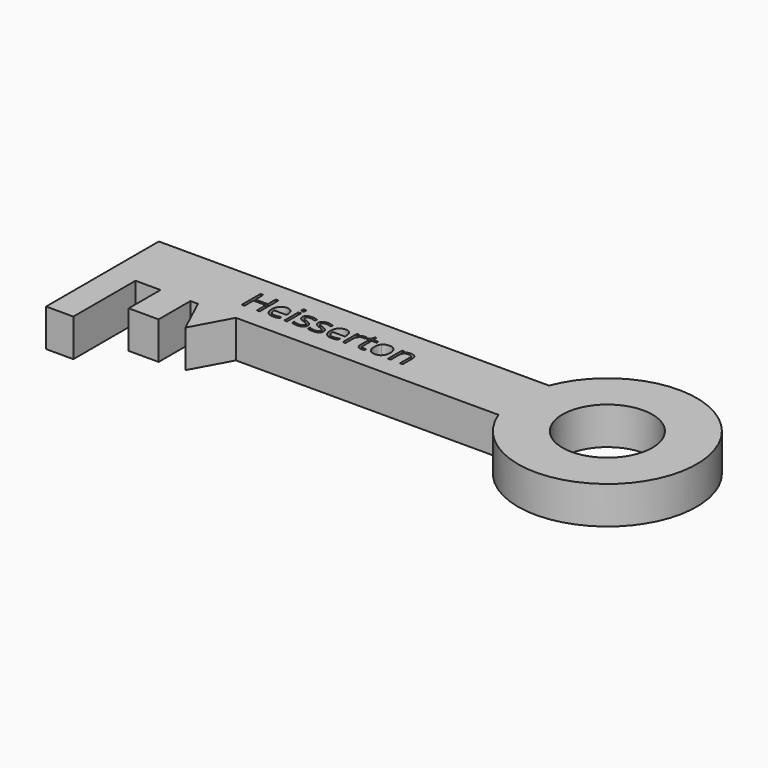
from build123d import *

# Parameters (mm, degrees)
F0_W     = 1.0724383422
F0_H     = 7.0772665165
F0_R     = 17.9847196989
F0_W_2   = 10.9090874883
F0_H_2   = 31.0606070869
F0_W_3   = 11.9697039824
F0_H_3   = 15.8926171895
F1_DEPTH = 15


with BuildPart() as f1:
    # F0 (on Top) → F1 (new body)
    with BuildSketch(Plane.XY):
        with BuildLine():
            Line((47.8787895892, 25.3030316714), (-108.1818212606, 25.3030316714))
            Line((-108.1818212606, 25.3030316714), (-108.1818212606, 0))
            Line((-108.1818212606, 0), (-97.2727337723, 0))
            Line((-97.2727337723, 0), (-87.2727337723, 0))
            Line((-87.2727337723, 0), (-75.3030297899, 0))
            Line((-75.3030297899, 0), (-72.2727318909, 0))
            Line((-72.2727318909, 0), (-57.1212122923, 0))
            Line((-57.1212122923, 0), (47.8787895892, 0))
            ThreePointArc((47.8787895892, 0), (117.1019664463, 12.6515158357), (47.8787895892, 25.3030316714))
        make_face()
        Polygon((-54.0404227057, 17.4914183584), (-54.0404227057, 8.0502415076), (-55.1376573102, 8.0502415076), (-55.1376573102, 12.4929051603), (-60.111374246, 12.4929051603), (-60.111374246, 8.0502415076), (-61.2086088505, 8.0502415076), (-61.2086088505, 17.4914183584), (-60.111374246, 17.4914183584), (-60.111374246, 13.4744238743), (-55.1376573102, 13.4744238743), (-55.1376573102, 17.4914183584), align=None, mode=Mode.SUBTRACT)
        with BuildLine():
            add(Edge.make_bspline(
                [(-47.3991571337, 8.0275116005), (-47.9054141546, 7.9200611308), (-48.6224394046, 7.9200611308)],
                knots=[0, 0, 0, 1, 1, 1], degree=2))
            add(Edge.make_bspline(
                [(-48.6224394046, 7.9200611308), (-50.1908029918, 7.9200611308), (-51.0989660966, 8.8767835825)],
                knots=[0, 0, 0, 1, 1, 1], degree=2))
            add(Edge.make_bspline(
                [(-51.0989660966, 8.8767835825), (-52.0071292014, 9.8335060342), (-52.0071292014, 11.529983643)],
                knots=[0, 0, 0, 1, 1, 1], degree=2))
            add(Edge.make_bspline(
                [(-52.0071292014, 11.529983643), (-52.0071292014, 13.2429920933), (-51.164056285, 14.2503402471)],
                knots=[0, 0, 0, 1, 1, 1], degree=2))
            add(Edge.make_bspline(
                [(-51.164056285, 14.2503402471), (-50.3209833686, 15.2576884009), (-48.8993309997, 15.2576884009)],
                knots=[0, 0, 0, 1, 1, 1], degree=2))
            add(Edge.make_bspline(
                [(-48.8993309997, 15.2576884009), (-47.5706646143, 15.2576884009), (-46.7957814191, 14.3825869791)],
                knots=[0, 0, 0, 1, 1, 1], degree=2))
            add(Edge.make_bspline(
                [(-46.7957814191, 14.3825869791), (-46.0208982238, 13.5074855573), (-46.0208982238, 12.0734350573)],
                knots=[0, 0, 0, 1, 1, 1], degree=2))
            Line((-46.0208982238, 12.0734350573), (-46.0208982238, 11.3956705558))
            Line((-46.0208982238, 11.3956705558), (-50.8954301107, 11.3956705558))
            add(Edge.make_bspline(
                [(-50.8954301107, 11.3956705558), (-50.8623684277, 10.1496583779), (-50.2651917785, 9.5039223819)],
                knots=[0, 0, 0, 1, 1, 1], degree=2))
            add(Edge.make_bspline(
                [(-50.2651917785, 9.5039223819), (-49.6680151294, 8.8581863858), (-48.5831786561, 8.8581863858)],
                knots=[0, 0, 0, 1, 1, 1], degree=2))
            add(Edge.make_bspline(
                [(-48.5831786561, 8.8581863858), (-47.4404842375, 8.8581863858), (-46.3246524363, 9.3355144341)],
                knots=[0, 0, 0, 1, 1, 1], degree=2))
            Line((-46.3246524363, 9.3355144341), (-46.3246524363, 8.3787919824))
            add(Edge.make_bspline(
                [(-46.3246524363, 8.3787919824), (-46.8929001129, 8.1349620703), (-47.3991571337, 8.0275116005)],
                knots=[0, 0, 0, 1, 1, 1], degree=2))
        make_face(mode=Mode.SUBTRACT)
        with Locations((-43.6559547119, 11.5888747658)):
            Rectangle(F0_W, F0_H, mode=Mode.SUBTRACT)
        with BuildLine():
            add(Edge.make_bspline(
                [(-36.7243662361, 11.1497742885), (-36.2821662261, 10.6848443714), (-36.2821662261, 9.9802172525)],
                knots=[0, 0, 0, 1, 1, 1], degree=2))
            add(Edge.make_bspline(
                [(-36.2821662261, 9.9802172525), (-36.2821662261, 8.992499473), (-37.0177886727, 8.4562803019)],
                knots=[0, 0, 0, 1, 1, 1], degree=2))
            add(Edge.make_bspline(
                [(-37.0177886727, 8.4562803019), (-37.7534111194, 7.9200611308), (-39.08414386, 7.9200611308)],
                knots=[0, 0, 0, 1, 1, 1], degree=2))
            add(Edge.make_bspline(
                [(-39.08414386, 7.9200611308), (-40.4913317426, 7.9200611308), (-41.278613069, 8.3663938512)],
                knots=[0, 0, 0, 1, 1, 1], degree=2))
            Line((-41.278613069, 8.3663938512), (-41.278613069, 9.3603106963))
            add(Edge.make_bspline(
                [(-41.278613069, 9.3603106963), (-40.7682233377, 9.1020162979), (-40.1844779973, 8.954271902)],
                knots=[0, 0, 0, 1, 1, 1], degree=2))
            add(Edge.make_bspline(
                [(-40.1844779973, 8.954271902), (-39.6007326569, 8.8065275061), (-39.0572812426, 8.8065275061)],
                knots=[0, 0, 0, 1, 1, 1], degree=2))
            add(Edge.make_bspline(
                [(-39.0572812426, 8.8065275061), (-38.2183410366, 8.8065275061), (-37.7668424281, 9.0741205029)],
                knots=[0, 0, 0, 1, 1, 1], degree=2))
            add(Edge.make_bspline(
                [(-37.7668424281, 9.0741205029), (-37.3153438197, 9.3417134997), (-37.3153438197, 9.8913639795)],
                knots=[0, 0, 0, 1, 1, 1], degree=2))
            add(Edge.make_bspline(
                [(-37.3153438197, 9.8913639795), (-37.3153438197, 10.3046350169), (-37.6728232671, 10.5980574535)],
                knots=[0, 0, 0, 1, 1, 1], degree=2))
            add(Edge.make_bspline(
                [(-37.6728232671, 10.5980574535), (-38.0303027145, 10.8914798901), (-39.0717457289, 11.2923527965)],
                knots=[0, 0, 0, 1, 1, 1], degree=2))
            add(Edge.make_bspline(
                [(-39.0717457289, 11.2923527965), (-40.0594635084, 11.6601640198), (-40.4758340787, 11.9349892597)],
                knots=[0, 0, 0, 1, 1, 1], degree=2))
            add(Edge.make_bspline(
                [(-40.4758340787, 11.9349892597), (-40.8922046489, 12.2098144996), (-41.0957406349, 12.5579953487)],
                knots=[0, 0, 0, 1, 1, 1], degree=2))
            add(Edge.make_bspline(
                [(-41.0957406349, 12.5579953487), (-41.2992766208, 12.9061761978), (-41.2992766208, 13.3897033116)],
                knots=[0, 0, 0, 1, 1, 1], degree=2))
            add(Edge.make_bspline(
                [(-41.2992766208, 13.3897033116), (-41.2992766208, 14.2555061351), (-40.594649502, 14.756597268)],
                knots=[0, 0, 0, 1, 1, 1], degree=2))
            add(Edge.make_bspline(
                [(-40.594649502, 14.756597268), (-39.8900223831, 15.2576884009), (-38.664673757, 15.2576884009)],
                knots=[0, 0, 0, 1, 1, 1], degree=2))
            add(Edge.make_bspline(
                [(-38.664673757, 15.2576884009), (-37.5219793384, 15.2576884009), (-36.4288774443, 14.7927584838)],
                knots=[0, 0, 0, 1, 1, 1], degree=2))
            Line((-36.4288774443, 14.7927584838), (-36.811153154, 13.9207565947))
            add(Edge.make_bspline(
                [(-36.811153154, 13.9207565947), (-37.8753260755, 14.3588238944), (-38.7411288989, 14.3588238944)],
                knots=[0, 0, 0, 1, 1, 1], degree=2))
            add(Edge.make_bspline(
                [(-38.7411288989, 14.3588238944), (-39.5036139631, 14.3588238944), (-39.8910555607, 14.1201598703)],
                knots=[0, 0, 0, 1, 1, 1], degree=2))
            add(Edge.make_bspline(
                [(-39.8910555607, 14.1201598703), (-40.2784971583, 13.8814958462), (-40.2784971583, 13.4620257431)],
                knots=[0, 0, 0, 1, 1, 1], degree=2))
            add(Edge.make_bspline(
                [(-40.2784971583, 13.4620257431), (-40.2784971583, 13.1768687273), (-40.1328191176, 12.9774654517)],
                knots=[0, 0, 0, 1, 1, 1], degree=2))
            add(Edge.make_bspline(
                [(-40.1328191176, 12.9774654517), (-39.9871410769, 12.7780621761), (-39.6647896677, 12.5972560973)],
                knots=[0, 0, 0, 1, 1, 1], degree=2))
            add(Edge.make_bspline(
                [(-39.6647896677, 12.5972560973), (-39.3424382584, 12.4164500184), (-38.4249765553, 12.0734350573)],
                knots=[0, 0, 0, 1, 1, 1], degree=2))
            add(Edge.make_bspline(
                [(-38.4249765553, 12.0734350573), (-37.1665662462, 11.6147042057), (-36.7243662361, 11.1497742885)],
                knots=[0, 0, 0, 1, 1, 1], degree=2))
        make_face(mode=Mode.SUBTRACT)
        with BuildLine():
            add(Edge.make_bspline(
                [(-30.4157838493, 11.1497742885), (-29.9735838392, 10.6848443714), (-29.9735838392, 9.9802172525)],
                knots=[0, 0, 0, 1, 1, 1], degree=2))
            add(Edge.make_bspline(
                [(-29.9735838392, 9.9802172525), (-29.9735838392, 8.992499473), (-30.7092062859, 8.4562803019)],
                knots=[0, 0, 0, 1, 1, 1], degree=2))
            add(Edge.make_bspline(
                [(-30.7092062859, 8.4562803019), (-31.4448287326, 7.9200611308), (-32.7755614732, 7.9200611308)],
                knots=[0, 0, 0, 1, 1, 1], degree=2))
            add(Edge.make_bspline(
                [(-32.7755614732, 7.9200611308), (-34.1827493558, 7.9200611308), (-34.9700306821, 8.3663938512)],
                knots=[0, 0, 0, 1, 1, 1], degree=2))
            Line((-34.9700306821, 8.3663938512), (-34.9700306821, 9.3603106963))
            add(Edge.make_bspline(
                [(-34.9700306821, 9.3603106963), (-34.4596409508, 9.1020162979), (-33.8758956104, 8.954271902)],
                knots=[0, 0, 0, 1, 1, 1], degree=2))
            add(Edge.make_bspline(
                [(-33.8758956104, 8.954271902), (-33.29215027, 8.8065275061), (-32.7486988558, 8.8065275061)],
                knots=[0, 0, 0, 1, 1, 1], degree=2))
            add(Edge.make_bspline(
                [(-32.7486988558, 8.8065275061), (-31.9097586497, 8.8065275061), (-31.4582600413, 9.0741205029)],
                knots=[0, 0, 0, 1, 1, 1], degree=2))
            add(Edge.make_bspline(
                [(-31.4582600413, 9.0741205029), (-31.0067614329, 9.3417134997), (-31.0067614329, 9.8913639795)],
                knots=[0, 0, 0, 1, 1, 1], degree=2))
            add(Edge.make_bspline(
                [(-31.0067614329, 9.8913639795), (-31.0067614329, 10.3046350169), (-31.3642408803, 10.5980574535)],
                knots=[0, 0, 0, 1, 1, 1], degree=2))
            add(Edge.make_bspline(
                [(-31.3642408803, 10.5980574535), (-31.7217203277, 10.8914798901), (-32.7631633421, 11.2923527965)],
                knots=[0, 0, 0, 1, 1, 1], degree=2))
            add(Edge.make_bspline(
                [(-32.7631633421, 11.2923527965), (-33.7508811216, 11.6601640198), (-34.1672516918, 11.9349892597)],
                knots=[0, 0, 0, 1, 1, 1], degree=2))
            add(Edge.make_bspline(
                [(-34.1672516918, 11.9349892597), (-34.5836222621, 12.2098144996), (-34.787158248, 12.5579953487)],
                knots=[0, 0, 0, 1, 1, 1], degree=2))
            add(Edge.make_bspline(
                [(-34.787158248, 12.5579953487), (-34.990694234, 12.9061761978), (-34.990694234, 13.3897033116)],
                knots=[0, 0, 0, 1, 1, 1], degree=2))
            add(Edge.make_bspline(
                [(-34.990694234, 13.3897033116), (-34.990694234, 14.2555061351), (-34.2860671151, 14.756597268)],
                knots=[0, 0, 0, 1, 1, 1], degree=2))
            add(Edge.make_bspline(
                [(-34.2860671151, 14.756597268), (-33.5814399962, 15.2576884009), (-32.3560913702, 15.2576884009)],
                knots=[0, 0, 0, 1, 1, 1], degree=2))
            add(Edge.make_bspline(
                [(-32.3560913702, 15.2576884009), (-31.2133969516, 15.2576884009), (-30.1202950575, 14.7927584838)],
                knots=[0, 0, 0, 1, 1, 1], degree=2))
            Line((-30.1202950575, 14.7927584838), (-30.5025707672, 13.9207565947))
            add(Edge.make_bspline(
                [(-30.5025707672, 13.9207565947), (-31.5667436886, 14.3588238944), (-32.4325465121, 14.3588238944)],
                knots=[0, 0, 0, 1, 1, 1], degree=2))
            add(Edge.make_bspline(
                [(-32.4325465121, 14.3588238944), (-33.1950315762, 14.3588238944), (-33.5824731738, 14.1201598703)],
                knots=[0, 0, 0, 1, 1, 1], degree=2))
            add(Edge.make_bspline(
                [(-33.5824731738, 14.1201598703), (-33.9699147715, 13.8814958462), (-33.9699147715, 13.4620257431)],
                knots=[0, 0, 0, 1, 1, 1], degree=2))
            add(Edge.make_bspline(
                [(-33.9699147715, 13.4620257431), (-33.9699147715, 13.1768687273), (-33.8242367308, 12.9774654517)],
                knots=[0, 0, 0, 1, 1, 1], degree=2))
            add(Edge.make_bspline(
                [(-33.8242367308, 12.9774654517), (-33.67855869, 12.7780621761), (-33.3562072808, 12.5972560973)],
                knots=[0, 0, 0, 1, 1, 1], degree=2))
            add(Edge.make_bspline(
                [(-33.3562072808, 12.5972560973), (-33.0338558716, 12.4164500184), (-32.1163941684, 12.0734350573)],
                knots=[0, 0, 0, 1, 1, 1], degree=2))
            add(Edge.make_bspline(
                [(-32.1163941684, 12.0734350573), (-30.8579838594, 11.6147042057), (-30.4157838493, 11.1497742885)],
                knots=[0, 0, 0, 1, 1, 1], degree=2))
        make_face(mode=Mode.SUBTRACT)
        with BuildLine():
            add(Edge.make_bspline(
                [(-24.0162818342, 8.0275116005), (-24.5225388551, 7.9200611308), (-25.2395641051, 7.9200611308)],
                knots=[0, 0, 0, 1, 1, 1], degree=2))
            add(Edge.make_bspline(
                [(-25.2395641051, 7.9200611308), (-26.8079276923, 7.9200611308), (-27.7160907971, 8.8767835825)],
                knots=[0, 0, 0, 1, 1, 1], degree=2))
            add(Edge.make_bspline(
                [(-27.7160907971, 8.8767835825), (-28.6242539019, 9.8335060342), (-28.6242539019, 11.529983643)],
                knots=[0, 0, 0, 1, 1, 1], degree=2))
            add(Edge.make_bspline(
                [(-28.6242539019, 11.529983643), (-28.6242539019, 13.2429920933), (-27.7811809855, 14.2503402471)],
                knots=[0, 0, 0, 1, 1, 1], degree=2))
            add(Edge.make_bspline(
                [(-27.7811809855, 14.2503402471), (-26.9381080691, 15.2576884009), (-25.5164557002, 15.2576884009)],
                knots=[0, 0, 0, 1, 1, 1], degree=2))
            add(Edge.make_bspline(
                [(-25.5164557002, 15.2576884009), (-24.1877893148, 15.2576884009), (-23.4129061195, 14.3825869791)],
                knots=[0, 0, 0, 1, 1, 1], degree=2))
            add(Edge.make_bspline(
                [(-23.4129061195, 14.3825869791), (-22.6380229243, 13.5074855573), (-22.6380229243, 12.0734350573)],
                knots=[0, 0, 0, 1, 1, 1], degree=2))
            Line((-22.6380229243, 12.0734350573), (-22.6380229243, 11.3956705558))
            Line((-22.6380229243, 11.3956705558), (-27.5125548111, 11.3956705558))
            add(Edge.make_bspline(
                [(-27.5125548111, 11.3956705558), (-27.4794931281, 10.1496583779), (-26.882316479, 9.5039223819)],
                knots=[0, 0, 0, 1, 1, 1], degree=2))
            add(Edge.make_bspline(
                [(-26.882316479, 9.5039223819), (-26.2851398299, 8.8581863858), (-25.2003033565, 8.8581863858)],
                knots=[0, 0, 0, 1, 1, 1], degree=2))
            add(Edge.make_bspline(
                [(-25.2003033565, 8.8581863858), (-24.057608938, 8.8581863858), (-22.9417771368, 9.3355144341)],
                knots=[0, 0, 0, 1, 1, 1], degree=2))
            Line((-22.9417771368, 9.3355144341), (-22.9417771368, 8.3787919824))
            add(Edge.make_bspline(
                [(-22.9417771368, 8.3787919824), (-23.5100248133, 8.1349620703), (-24.0162818342, 8.0275116005)],
                knots=[0, 0, 0, 1, 1, 1], degree=2))
        make_face(mode=Mode.SUBTRACT)
        with BuildLine():
            add(Edge.make_bspline(
                [(-44.1022874324, 16.505766934), (-44.2830935113, 16.6834734801), (-44.2830935113, 17.0450856379)],
                knots=[0, 0, 0, 1, 1, 1], degree=2))
            add(Edge.make_bspline(
                [(-44.2830935113, 17.0450856379), (-44.2830935113, 17.4128968613), (-44.1022874324, 17.5844043418)],
                knots=[0, 0, 0, 1, 1, 1], degree=2))
            add(Edge.make_bspline(
                [(-44.1022874324, 17.5844043418), (-43.9214813535, 17.7559118224), (-43.6487224688, 17.7559118224)],
                knots=[0, 0, 0, 1, 1, 1], degree=2))
            add(Edge.make_bspline(
                [(-43.6487224688, 17.7559118224), (-43.3904280704, 17.7559118224), (-43.2034229259, 17.581304809)],
                knots=[0, 0, 0, 1, 1, 1], degree=2))
            add(Edge.make_bspline(
                [(-43.2034229259, 17.581304809), (-43.0164177815, 17.4066977957), (-43.0164177815, 17.0450856379)],
                knots=[0, 0, 0, 1, 1, 1], degree=2))
            add(Edge.make_bspline(
                [(-43.0164177815, 17.0450856379), (-43.0164177815, 16.6834734801), (-43.2034229259, 16.505766934)],
                knots=[0, 0, 0, 1, 1, 1], degree=2))
            add(Edge.make_bspline(
                [(-43.2034229259, 16.505766934), (-43.3904280704, 16.3280603879), (-43.6487224688, 16.3280603879)],
                knots=[0, 0, 0, 1, 1, 1], degree=2))
            add(Edge.make_bspline(
                [(-43.6487224688, 16.3280603879), (-43.9214813535, 16.3280603879), (-44.1022874324, 16.505766934)],
                knots=[0, 0, 0, 1, 1, 1], degree=2))
        make_face(mode=Mode.SUBTRACT)
        with BuildLine():
            add(Edge.make_bspline(
                [(-18.8008013415, 14.8826449344), (-18.2449517961, 15.2576884009), (-17.5795854258, 15.2576884009)],
                knots=[0, 0, 0, 1, 1, 1], degree=2))
            add(Edge.make_bspline(
                [(-17.5795854258, 15.2576884009), (-17.1084564431, 15.2576884009), (-16.7344461542, 15.1791669038)],
                knots=[0, 0, 0, 1, 1, 1], degree=2))
            Line((-16.7344461542, 15.1791669038), (-16.8832237276, 14.1852500587))
            add(Edge.make_bspline(
                [(-16.8832237276, 14.1852500587), (-17.3212910274, 14.2823687525), (-17.6581069229, 14.2823687525)],
                knots=[0, 0, 0, 1, 1, 1], degree=2))
            add(Edge.make_bspline(
                [(-17.6581069229, 14.2823687525), (-18.5177106808, 14.2823687525), (-19.1272854611, 13.5849738768)],
                knots=[0, 0, 0, 1, 1, 1], degree=2))
            add(Edge.make_bspline(
                [(-19.1272854611, 13.5849738768), (-19.7368602413, 12.8875790011), (-19.7368602413, 11.8482023419)],
                knots=[0, 0, 0, 1, 1, 1], degree=2))
            Line((-19.7368602413, 11.8482023419), (-19.7368602413, 8.0502415076))
            Line((-19.7368602413, 8.0502415076), (-20.8092985835, 8.0502415076))
            Line((-20.8092985835, 8.0502415076), (-20.8092985835, 15.1275080241))
            Line((-20.8092985835, 15.1275080241), (-19.9248985634, 15.1275080241))
            Line((-19.9248985634, 15.1275080241), (-19.8009172521, 13.8174388354))
            Line((-19.8009172521, 13.8174388354), (-19.7492583724, 13.8174388354))
            add(Edge.make_bspline(
                [(-19.7492583724, 13.8174388354), (-19.3566508868, 14.5076014679), (-18.8008013415, 14.8826449344)],
                knots=[0, 0, 0, 1, 1, 1], degree=2))
        make_face(mode=Mode.SUBTRACT)
        with BuildLine():
            add(Edge.make_bspline(
                [(-13.9572647824, 9.1485092896), (-13.6535105699, 8.8065275061), (-13.1245236419, 8.8065275061)],
                knots=[0, 0, 0, 1, 1, 1], degree=2))
            add(Edge.make_bspline(
                [(-13.1245236419, 8.8065275061), (-12.8393666261, 8.8065275061), (-12.5748731621, 8.8478546099)],
                knots=[0, 0, 0, 1, 1, 1], degree=2))
            add(Edge.make_bspline(
                [(-12.5748731621, 8.8478546099), (-12.3103796981, 8.8891817136), (-12.1554030591, 8.9346415278)],
                knots=[0, 0, 0, 1, 1, 1], degree=2))
            Line((-12.1554030591, 8.9346415278), (-12.1554030591, 8.1142985184))
            add(Edge.make_bspline(
                [(-12.1554030591, 8.1142985184), (-12.3289768948, 8.0316443109), (-12.6678591455, 7.9758527208)],
                knots=[0, 0, 0, 1, 1, 1], degree=2))
            add(Edge.make_bspline(
                [(-12.6678591455, 7.9758527208), (-13.0067413963, 7.9200611308), (-13.279500281, 7.9200611308)],
                knots=[0, 0, 0, 1, 1, 1], degree=2))
            add(Edge.make_bspline(
                [(-13.279500281, 7.9200611308), (-15.331390982, 7.9200611308), (-15.331390982, 10.0835350119)],
                knots=[0, 0, 0, 1, 1, 1], degree=2))
            Line((-15.331390982, 10.0835350119), (-15.331390982, 14.2947668836))
            Line((-15.331390982, 14.2947668836), (-16.3459713789, 14.2947668836))
            Line((-16.3459713789, 14.2947668836), (-16.3459713789, 14.8113556804))
            Line((-16.3459713789, 14.8113556804), (-15.331390982, 15.2576884009))
            Line((-15.331390982, 15.2576884009), (-14.8809255511, 16.7681940428))
            Line((-14.8809255511, 16.7681940428), (-14.261018995, 16.7681940428))
            Line((-14.261018995, 16.7681940428), (-14.261018995, 15.1275080241))
            Line((-14.261018995, 15.1275080241), (-12.2070619388, 15.1275080241))
            Line((-12.2070619388, 15.1275080241), (-12.2070619388, 14.2947668836))
            Line((-12.2070619388, 14.2947668836), (-14.261018995, 14.2947668836))
            Line((-14.261018995, 14.2947668836), (-14.261018995, 10.128994826))
            add(Edge.make_bspline(
                [(-14.261018995, 10.128994826), (-14.261018995, 9.4904910731), (-13.9572647824, 9.1485092896)],
                knots=[0, 0, 0, 1, 1, 1], degree=2))
        make_face(mode=Mode.SUBTRACT)
        with BuildLine():
            add(Edge.make_bspline(
                [(-5.5089715991, 14.2689374438), (-4.6338701773, 13.2801864867), (-4.6338701773, 11.596107009)],
                knots=[0, 0, 0, 1, 1, 1], degree=2))
            add(Edge.make_bspline(
                [(-4.6338701773, 11.596107009), (-4.6338701773, 9.864501362), (-5.5048388888, 8.8922812464)],
                knots=[0, 0, 0, 1, 1, 1], degree=2))
            add(Edge.make_bspline(
                [(-5.5048388888, 8.8922812464), (-6.3758076002, 7.9200611308), (-7.9131758596, 7.9200611308)],
                knots=[0, 0, 0, 1, 1, 1], degree=2))
            add(Edge.make_bspline(
                [(-7.9131758596, 7.9200611308), (-8.8636992457, 7.9200611308), (-9.5993216924, 8.3663938512)],
                knots=[0, 0, 0, 1, 1, 1], degree=2))
            add(Edge.make_bspline(
                [(-9.5993216924, 8.3663938512), (-10.3349441391, 8.8127265717), (-10.7358170454, 9.6454677122)],
                knots=[0, 0, 0, 1, 1, 1], degree=2))
            add(Edge.make_bspline(
                [(-10.7358170454, 9.6454677122), (-11.1366899518, 10.4782088527), (-11.1366899518, 11.596107009)],
                knots=[0, 0, 0, 1, 1, 1], degree=2))
            add(Edge.make_bspline(
                [(-11.1366899518, 11.596107009), (-11.1366899518, 13.3256463008), (-10.2708871283, 14.2916673508)],
                knots=[0, 0, 0, 1, 1, 1], degree=2))
            add(Edge.make_bspline(
                [(-10.2708871283, 14.2916673508), (-9.4050843048, 15.2576884009), (-7.8677160454, 15.2576884009)],
                knots=[0, 0, 0, 1, 1, 1], degree=2))
            add(Edge.make_bspline(
                [(-7.8677160454, 15.2576884009), (-6.384073021, 15.2576884009), (-5.5089715991, 14.2689374438)],
                knots=[0, 0, 0, 1, 1, 1], degree=2))
        make_face(mode=Mode.SUBTRACT)
        with BuildLine():
            Line((3.1624879444, 8.0502415076), (2.0900496022, 8.0502415076))
            Line((2.0900496022, 8.0502415076), (2.0900496022, 12.6292846027))
            add(Edge.make_bspline(
                [(2.0900496022, 12.6292846027), (2.0900496022, 13.4930210709), (1.696408939, 13.9197234171)],
                knots=[0, 0, 0, 1, 1, 1], degree=2))
            add(Edge.make_bspline(
                [(1.696408939, 13.9197234171), (1.3027682758, 14.3464257633), (0.4617617146, 14.3464257633)],
                knots=[0, 0, 0, 1, 1, 1], degree=2))
            add(Edge.make_bspline(
                [(0.4617617146, 14.3464257633), (-0.647871021, 14.3464257633), (-1.1644598178, 13.7461495814)],
                knots=[0, 0, 0, 1, 1, 1], degree=2))
            add(Edge.make_bspline(
                [(-1.1644598178, 13.7461495814), (-1.6810486147, 13.1458733995), (-1.6810486147, 11.7634817792)],
                knots=[0, 0, 0, 1, 1, 1], degree=2))
            Line((-1.6810486147, 11.7634817792), (-1.6810486147, 8.0502415076))
            Line((-1.6810486147, 8.0502415076), (-2.7534869569, 8.0502415076))
            Line((-2.7534869569, 8.0502415076), (-2.7534869569, 15.1275080241))
            Line((-2.7534869569, 15.1275080241), (-1.8814850678, 15.1275080241))
            Line((-1.8814850678, 15.1275080241), (-1.7079112321, 14.1583874413))
            Line((-1.7079112321, 14.1583874413), (-1.6562523524, 14.1583874413))
            add(Edge.make_bspline(
                [(-1.6562523524, 14.1583874413), (-1.3256355224, 14.6811753036), (-0.7315584061, 14.9694318523)],
                knots=[0, 0, 0, 1, 1, 1], degree=2))
            add(Edge.make_bspline(
                [(-0.7315584061, 14.9694318523), (-0.1374812897, 15.2576884009), (0.5919420914, 15.2576884009)],
                knots=[0, 0, 0, 1, 1, 1], degree=2))
            add(Edge.make_bspline(
                [(0.5919420914, 15.2576884009), (1.8710159523, 15.2576884009), (2.5167519484, 14.6408813775)],
                knots=[0, 0, 0, 1, 1, 1], degree=2))
            add(Edge.make_bspline(
                [(2.5167519484, 14.6408813775), (3.1624879444, 14.0240743541), (3.1624879444, 12.666478996)],
                knots=[0, 0, 0, 1, 1, 1], degree=2))
            Line((3.1624879444, 12.666478996), (3.1624879444, 8.0502415076))
        make_face(mode=Mode.SUBTRACT)
        with Locations((81.3342561796, 12.6515158357)):
            Circle(F0_R, mode=Mode.SUBTRACT)
        with Locations((-102.7272775164, -15.5303035434)):
            Rectangle(F0_W_2, F0_H_2)
        Polygon((-65.3030297899, -15), (-57.1212122923, 0), (-72.2727318909, 0), align=None)
        with Locations((-81.2878817811, -7.9463085948)):
            Rectangle(F0_W_3, F0_H_3)
    extrude(amount=F1_DEPTH)


solid = f1.part
